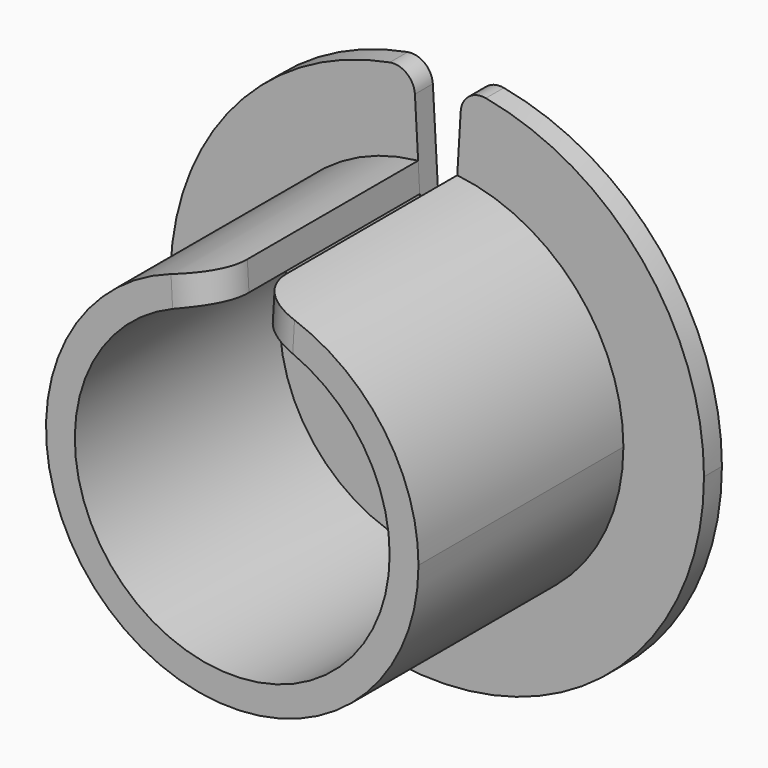
from build123d import *

# Parameters (mm, degrees)
F1_DEPTH = 1.05
F2_R     = 1
F4_DEPTH = 12
F5_R     = 2


with BuildPart() as f1:
    # F0 (on Front) → F1 (new body)
    with BuildSketch(Plane.XZ):
        with BuildLine():
            ThreePointArc((-1.102396, 12.451294), (-8.440085, -9.220356), (12.5, 0))
            ThreePointArc((12.5, 0), (9.242496, 8.415834), (1.167797, 12.44533))
            Line((1.167797, 12.44533), (0.567577, 2.434719))
            ThreePointArc((0.567577, 2.434719), (1.958181, 1.554197), (2.5, 0))
            ThreePointArc((2.5, 0), (-1.5644, -1.950039), (-0.542121, 2.440513))
            Line((-0.542121, 2.440513), (-1.102396, 12.451294))
        make_face()
    extrude(amount=F1_DEPTH)

    # F2
    f2_edges = [f1.edges().sort_by_distance(p)[0] for p in [
        (-1.102396, -0.525, 12.451294),
        (1.167797, -0.525, 12.44533),
        (-0.542121, -0.525, 2.440513),
        (0.567577, -0.525, 2.434719),
    ]]
    fillet(f2_edges, radius=F2_R)

    # F3 (on face) → F4 (join)
    with BuildSketch(Plane.XZ.offset(1.05)):
        with BuildLine():
            ThreePointArc((0.860766, 7.324596), (5.510843, 4.901146), (7.375, 0))
            ThreePointArc((7.375, 0), (-4.918049, -5.495764), (-0.815757, 7.329745))
            Line((-0.815757, 7.329745), (-0.891291, 8.679356))
            ThreePointArc((-0.891291, 8.679356), (-5.845901, -6.476965), (8.725, 0))
            ThreePointArc((8.725, 0), (6.493911, 5.82707), (0.941676, 8.674034))
            Line((0.941676, 8.674034), (0.860766, 7.324596))
        make_face()
    extrude(amount=F4_DEPTH)

    # F5
    f5_edges = [f1.edges().sort_by_distance(p)[0] for p in [
        (-0.853524, -13.05, 8.004551),
        (0.901221, -13.05, 7.999315),
    ]]
    fillet(f5_edges, radius=F5_R)


solid = f1.part
